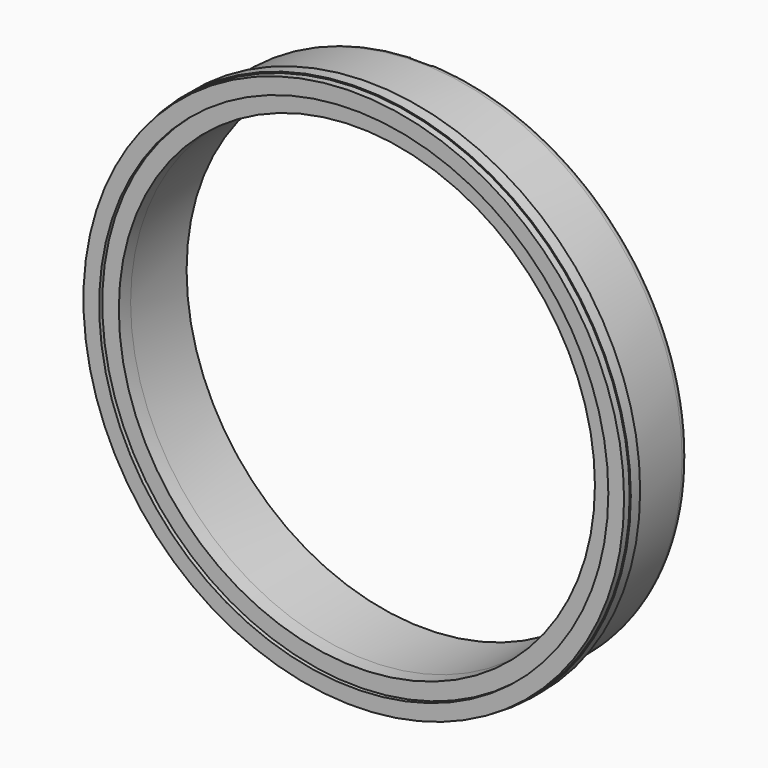
from build123d import *

# Parameters (mm, degrees)
F0_R     = 139.7
F0_R_2   = 122.5
F1_DEPTH = 6
F2_R     = 139.1
F2_R_2   = 122.5
F3_DEPTH = 3.59
F4_R     = 135.7
F4_R_2   = 122.5
F5_DEPTH = 36
F6_R     = 131
F6_R_2   = 122.5
F7_DEPTH = 2
F8_R     = 4


with BuildPart() as f1:
    # F0 (on Front) → F1 (new body)
    with BuildSketch(Plane.XZ):
        Circle(F0_R)
        Circle(F0_R_2, mode=Mode.SUBTRACT)
    extrude(amount=F1_DEPTH)

    # F2 (on face) → F3 (join)
    with BuildSketch(Plane.XZ.offset(6)):
        Circle(F2_R)
        Circle(F2_R_2, mode=Mode.SUBTRACT)
    extrude(amount=F3_DEPTH)

    # F4 (on face) → F5 (join)
    with BuildSketch(Plane(origin=(0, 0, 0), x_dir=(-1, 0, 0), z_dir=(0, 1, 0))):
        Circle(F4_R)
        Circle(F4_R_2, mode=Mode.SUBTRACT)
    extrude(amount=F5_DEPTH)

    # F6 (on face) → F7 (cut)
    with BuildSketch(Plane.XZ.offset(9.59)):
        Circle(F6_R)
        Circle(F6_R_2, mode=Mode.SUBTRACT)
    extrude(amount=-F7_DEPTH, mode=Mode.SUBTRACT)

    # F8
    f8_edges = [f1.edges().sort_by_distance(p)[0] for p in [
        (135.7, 36, 0),
    ]]
    fillet(f8_edges, radius=F8_R)


solid = f1.part
